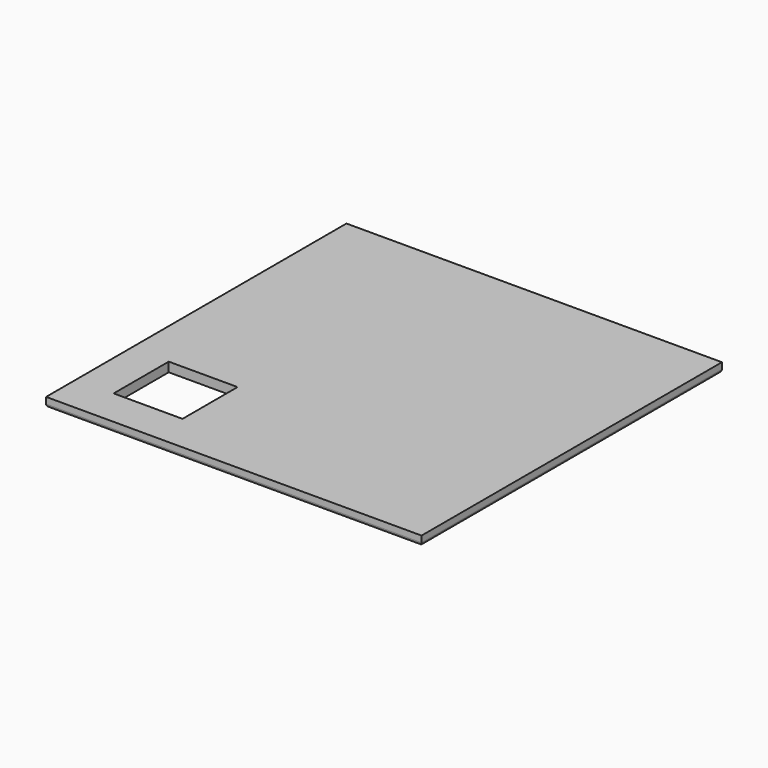
from build123d import *

# Parameters (mm, degrees)
F0_W     = 381
F0_H     = 381
F1_DEPTH = 9.525
F2_W     = 69.85
F2_H     = 69.85
F3_DEPTH = 9.525
F4_R     = 3.175


with BuildPart() as f1:
    # F0 (on Top) → F1 (new body)
    with BuildSketch(Plane.XY):
        with Locations((190.5, 190.5)):
            Rectangle(F0_W, F0_H)
    extrude(amount=F1_DEPTH)

    # F2 (on face) → F3 (cut, through all)
    with BuildSketch(Plane.XY.offset(9.525)):
        with Locations((73.025, 73.025)):
            Rectangle(F2_W, F2_H)
    extrude(amount=-F3_DEPTH, mode=Mode.SUBTRACT)

    # F4
    f4_edges = [f1.edges().sort_by_distance(p)[0] for p in [
        (0, 190.5, 0),
        (190.5, 0, 0),
        (381, 190.5, 0),
        (190.5, 381, 0),
    ]]
    fillet(f4_edges, radius=F4_R)


solid = f1.part
